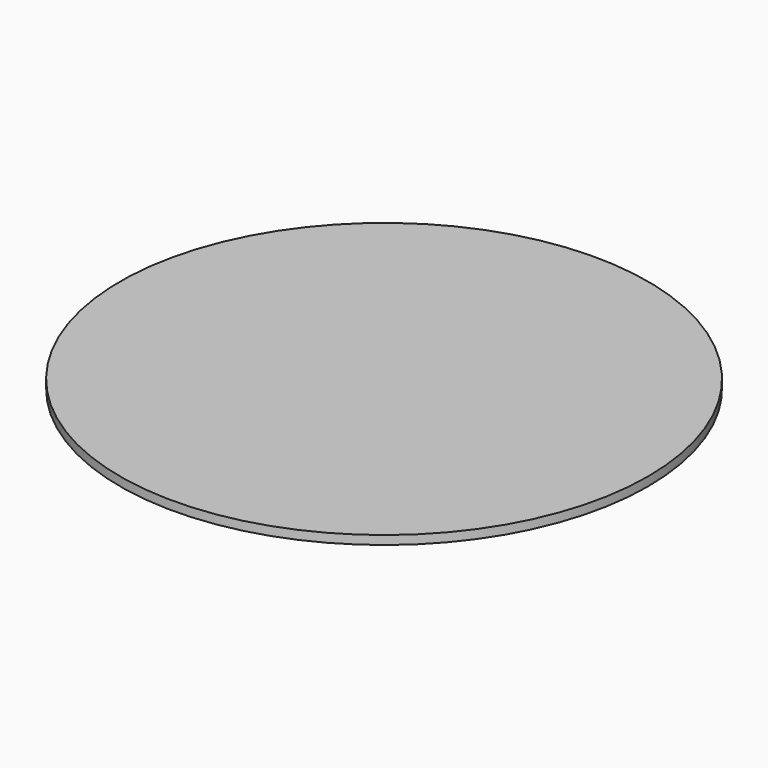
from build123d import *

# Parameters (mm, degrees)
SKETCH007_R     = 26
POCKET_DEPTH    = 18
CHAMFER_SIZE    = 1
CHAMFER001_SIZE = 1


with BuildPart() as body:
    # Sketch006 (on XZ_Plane of Origin) → Revolution001 (revolve)
    with BuildSketch(Plane.XZ):
        Polygon((0, 0), (30, 0), (30, 18), (42, 18), (42, 22), (150, 22), (150, 27), (0, 27), align=None)
    revolve(axis=Axis((0, 0, 0), (0, 0, 1)))

    # Sketch007 (on Face1 of Revolution001) → Pocket (cut)
    with BuildSketch(Plane(origin=(0, 0, 0), x_dir=(1, 0, 0), z_dir=(0, 0, -1))):
        Circle(SKETCH007_R)
    extrude(amount=-POCKET_DEPTH, mode=Mode.SUBTRACT)

    # Chamfer
    chamfer_edges = [body.edges().sort_by_distance(p)[0] for p in [
        (-30, 0, 0),
        (-30, 0, 18),
    ]]
    chamfer(chamfer_edges, length=CHAMFER_SIZE)


with BuildPart() as body001:
    # Sketch (on XZ_Plane of Origin002) → Revolution (revolve)
    with BuildSketch(Plane.XZ):
        Polygon((30, 22), (30, 0), (36.799792, 0), (37.149896, 0.5), (49.149896, 0.5), (49.5, 0), (55, 0), (55, 22), (49.5, 22), (49.149896, 21.5), (37.149896, 21.5), (36.799792, 22), align=None)
    revolve(axis=Axis((0, 0, 0), (0, 0, 1)))


with BuildPart() as body002:
    # Sketch008 (on XZ_Plane002 of Origin004) → Revolution002 (revolve)
    with BuildSketch(Plane.XZ):
        Polygon((0, 0), (-26.5, 0), (-26.5, 20), (-30, 20), (-30, 0), (-37.5, 0), (-37.5, -3), (0, -3), align=None)
    revolve(axis=Axis((0, 0, 0), (0, 0, 1)))

    # Chamfer001
    chamfer001_edges = [body002.edges().sort_by_distance(p)[0] for p in [
        (26.5, 0, 0),
    ]]
    chamfer(chamfer001_edges, length=CHAMFER001_SIZE)

    # Sketch009 (on XZ_Plane002 of Origin004) → Revolution003 (revolve)
    with BuildSketch(Plane.XZ):
        Polygon((-37.5, 0), (-40.1853, -1.5), (-75, -1.5), (-75, -4.5), (0, -4.5), (0, -3), (-37.5, -3), align=None)
    revolve(axis=Axis((0, 0, 0), (0, 0, 1)))


solid = Compound([body.part, body001.part, body002.part])
